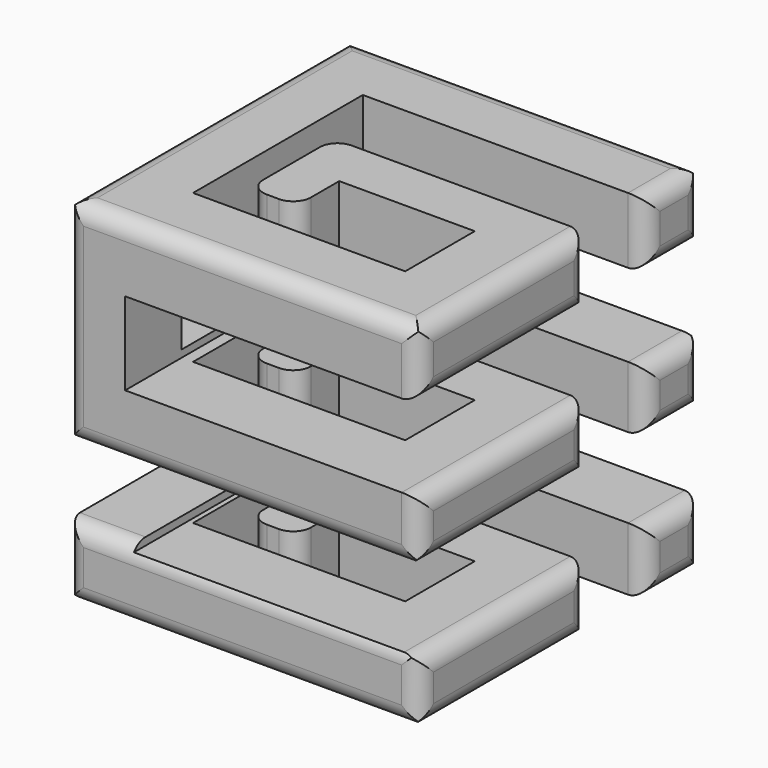
from build123d import *

# Parameters (mm, degrees)
F3_DEPTH = 50
F4_DEPTH = 50
F5_DEPTH = 50


with BuildPart() as f3:
    # F0 (on Top) → F3 (new body, symmetric)
    with BuildSketch(Plane.XY):
        with BuildLine():
            Line((-30, 30), (45, 30))
            ThreePointArc((45, 30), (48.535534, 31.464466), (50, 35))
            Line((50, 35), (50, 45))
            ThreePointArc((50, 45), (48.535534, 48.535534), (45, 50))
            Line((45, 50), (-45, 50))
            ThreePointArc((-45, 50), (-48.535534, 48.535534), (-50, 45))
            Line((-50, 45), (-50, -45))
            ThreePointArc((-50, -45), (-48.535534, -48.535534), (-45, -50))
            Line((-45, -50), (45, -50))
            ThreePointArc((45, -50), (48.535534, -48.535534), (50, -45))
            Line((50, -45), (50, 4.584678))
            ThreePointArc((50, 4.584678), (48.535534, 8.120212), (45, 9.584678))
            Line((45, 9.584678), (-16.822587, 9.584678))
            ThreePointArc((-16.822587, 9.584678), (-20.358121, 8.120212), (-21.822587, 4.584678))
            Line((-21.822587, 4.584678), (-21.822587, -15.415322))
            ThreePointArc((-21.822587, -15.415322), (-20.358121, -18.950856), (-16.822587, -20.415322))
            Line((-16.822587, -20.415322), (-13.330647, -20.415322))
            ThreePointArc((-13.330647, -20.415322), (-9.795113, -18.950856), (-8.330647, -15.415322))
            Line((-8.330647, -15.415322), (-8.330647, -5.415322))
            Line((-8.330647, -5.415322), (30, -5.415322))
            Line((30, -5.415322), (30, -30))
            Line((30, -30), (-30, -30))
            Line((-30, -30), (-30, 30))
        make_face()
    extrude(amount=F3_DEPTH, both=True)

    # F1 (on Front) → F4 (intersect, symmetric)
    with BuildSketch(Plane.XZ):
        with BuildLine():
            Line((-33.193547, 7.949598), (-33.193547, 31.362906))
            Line((-33.193547, 31.362906), (45, 31.362906))
            ThreePointArc((45, 31.362906), (48.535534, 32.827372), (50, 36.362906))
            Line((50, 36.362906), (50, 45))
            ThreePointArc((50, 45), (48.535534, 48.535534), (45, 50))
            Line((45, 50), (-45, 50))
            ThreePointArc((-45, 50), (-48.535534, 48.535534), (-50, 45))
            Line((-50, 45), (-50, -45))
            ThreePointArc((-50, -45), (-48.535534, -48.535534), (-45, -50))
            Line((-45, -50), (45, -50))
            ThreePointArc((45, -50), (48.535534, -48.535534), (50, -45))
            Line((50, -45), (50, -37.162689))
            ThreePointArc((50, -37.162689), (48.535534, -33.627155), (45, -32.162689))
            Line((45, -32.162689), (-31.415325, -32.162689))
            Line((-31.415325, -32.162689), (-31.415325, -9.536289))
            Line((-31.415325, -9.536289), (45, -9.536289))
            ThreePointArc((45, -9.536289), (48.535534, -8.071823), (50, -4.536289))
            Line((50, -4.536289), (50, 2.949598))
            ThreePointArc((50, 2.949598), (48.535534, 6.485132), (45, 7.949598))
            Line((45, 7.949598), (-33.193547, 7.949598))
        make_face()
    extrude(amount=F4_DEPTH, both=True, mode=Mode.INTERSECT)

    # F2 (on Right) → F5 (intersect, symmetric)
    with BuildSketch(Plane.YZ):
        with BuildLine():
            ThreePointArc((-45, 50), (-48.535534, 48.535534), (-50, 45))
            Line((-50, 45), (-50, -5))
            ThreePointArc((-50, -5), (-48.535534, -8.535534), (-45, -10))
            Line((-45, -10), (30, -10))
            Line((30, -10), (30, -30))
            Line((30, -30), (-45, -30))
            ThreePointArc((-45, -30), (-48.535534, -31.464466), (-50, -35))
            Line((-50, -35), (-50, -45))
            ThreePointArc((-50, -45), (-48.535534, -48.535534), (-45, -50))
            Line((-45, -50), (45, -50))
            ThreePointArc((45, -50), (48.535534, -48.535534), (50, -45))
            Line((50, -45), (50, 5))
            ThreePointArc((50, 5), (48.535534, 8.535534), (45, 10))
            Line((45, 10), (-30, 10))
            Line((-30, 10), (-30, 30))
            Line((-30, 30), (45, 30))
            ThreePointArc((45, 30), (48.535534, 31.464466), (50, 35))
            Line((50, 35), (50, 45))
            ThreePointArc((50, 45), (48.535534, 48.535534), (45, 50))
            Line((45, 50), (-45, 50))
        make_face()
    extrude(amount=F5_DEPTH, both=True, mode=Mode.INTERSECT)


solid = f3.part
